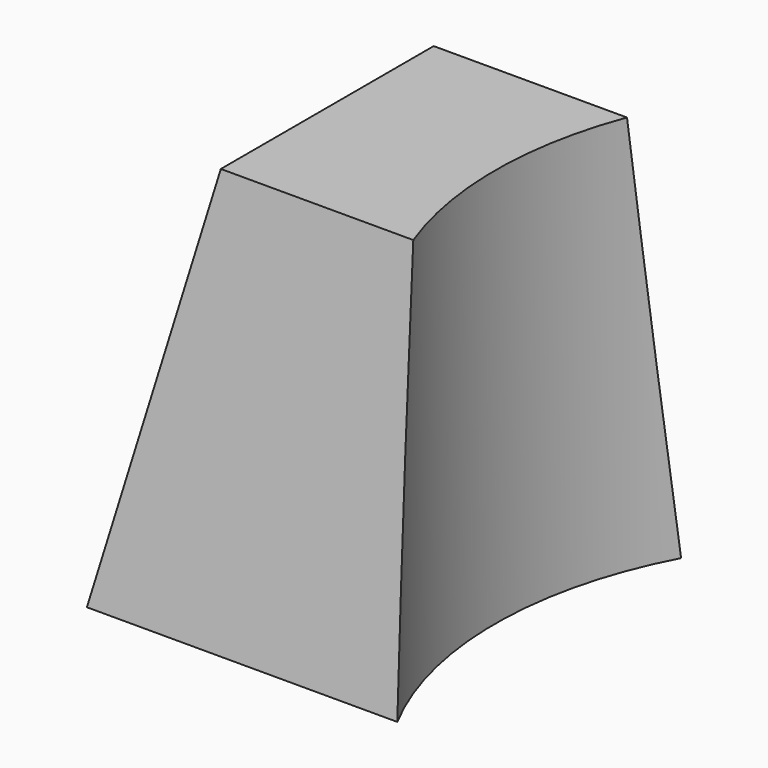
from build123d import *

# Parameters (mm, degrees)
F1_DEPTH = 35
F3_DEPTH = 40.001
F5_DEPTH = 45.001


with BuildPart() as f1:
    # F0 (on Right) → F1 (new body)
    with BuildSketch(Plane.YZ):
        Polygon((5.127102, 45), (0, 0), (40, 0), (35.127102, 45), align=None)
    extrude(amount=-F1_DEPTH)

    # F2 (on Front) → F3 (cut, through all)
    with BuildSketch(Plane.XZ):
        Polygon((-35, 45), (-35, 0), (-24, 45), align=None)
    extrude(amount=-F3_DEPTH, mode=Mode.SUBTRACT)

    # F4 (on Top) → F5 (cut, through all)
    with BuildSketch(Plane.XY):
        with BuildLine():
            Line((0, 0), (0, 40))
            ThreePointArc((0, 40), (-4.972394, 20), (0, 0))
        make_face()
    extrude(amount=F5_DEPTH, mode=Mode.SUBTRACT)


solid = f1.part
